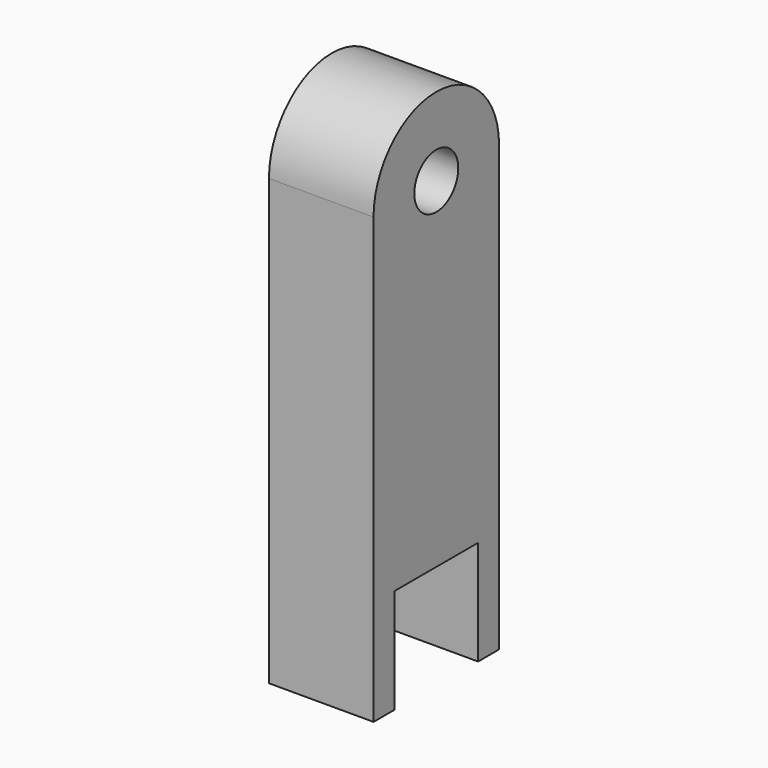
from build123d import *

# Parameters (mm, degrees)
F0_W     = 6.35
F0_H     = 25.4
F1_DEPTH = 25.4


with BuildPart() as f1:
    # F0 (on Right) → F1 (new body)
    with BuildSketch(Plane.YZ):
        with BuildLine():
            Line((6.6675, 66.2214285714), (19.05, 66.2214285714))
            ThreePointArc((19.05, 66.2214285714), (0, 85.2714285714), (-19.05, 66.2214285714))
            Line((-19.05, 66.2214285714), (-6.6675, 66.2214285714))
            ThreePointArc((-6.6675, 66.2214285714), (0, 72.8889285714), (6.6675, 66.2214285714))
        make_face()
        with BuildLine():
            Line((19.05, -16.3285714286), (19.05, 66.2214285714))
            ThreePointArc((19.05, 66.2214285714), (0, 47.1714285714), (-19.05, 66.2214285714))
            Line((-19.05, 66.2214285714), (-19.05, -16.3285714286))
            Line((-19.05, -16.3285714286), (-12.7, -16.3285714286))
            Line((-12.7, -16.3285714286), (12.7, -16.3285714286))
            Line((12.7, -16.3285714286), (19.05, -16.3285714286))
        make_face()
        with BuildLine():
            ThreePointArc((-19.05, 66.2214285714), (0, 47.1714285714), (19.05, 66.2214285714))
            Line((19.05, 66.2214285714), (6.6675, 66.2214285714))
            ThreePointArc((6.6675, 66.2214285714), (0, 59.5539285714), (-6.6675, 66.2214285714))
            Line((-6.6675, 66.2214285714), (-19.05, 66.2214285714))
        make_face()
        with Locations((15.875, -29.0285714286)):
            Rectangle(F0_W, F0_H)
        with Locations((-15.875, -29.0285714286)):
            Rectangle(F0_W, F0_H)
    extrude(amount=F1_DEPTH)


solid = f1.part
